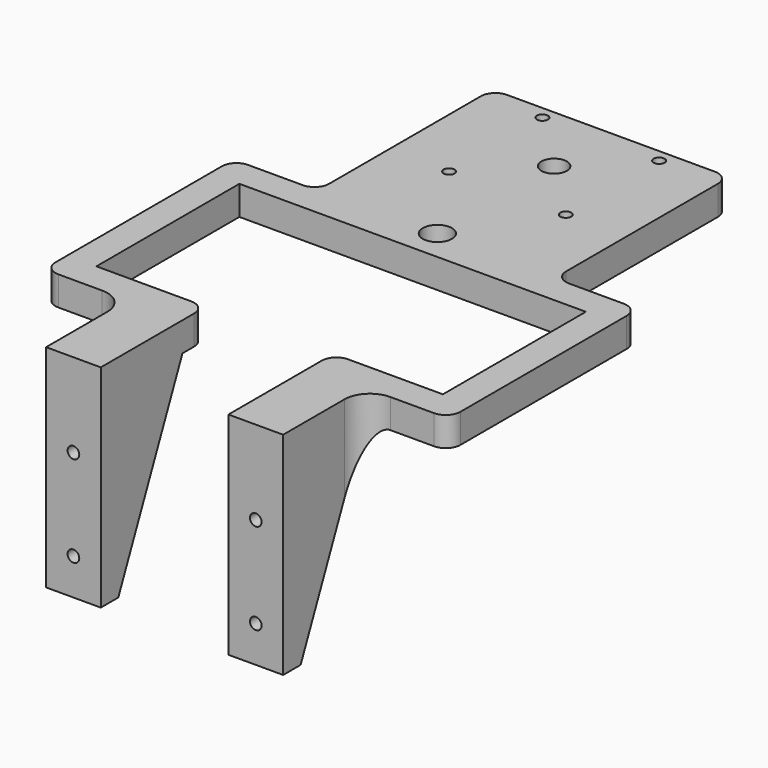
from build123d import *

# Parameters (mm, degrees)
SKETCH_R     = 4
SKETCH_R_2   = 3.5
SKETCH_R_3   = 1.5
PAD_DEPTH    = 8
SKETCH001_W  = 15
SKETCH001_H  = 6
PAD001_DEPTH = 50
PAD002_DEPTH = 2.5
PAD003_DEPTH = 2.5
PAD004_DEPTH = 2.5
PAD005_DEPTH = 2.5
SKETCH006_R  = 1.6
POCKET_DEPTH = 6
FILLET_R     = 7
FILLET001_R  = 4
FILLET002_R  = 4


with BuildPart() as part:
    # Sketch → Pad (new body)
    with BuildSketch(Plane.XY):
        Polygon((-17.5, 0), (-32.5, 0), (-32.5, 28), (-55.5, 28), (-55.5, 93), (-32.5, 93), (-32.5, 153), (32.5, 153), (32.5, 93), (55.5, 93), (55.5, 28), (32.5, 28), (32.5, 0), (17.5, 0), (17.5, 36), (47.5, 36), (47.5, 85), (17.5, 85), (-17.5, 85), (-47.5, 85), (-47.5, 36), (-17.5, 36), align=None)
        with Locations((0, 93.5)):
            Circle(SKETCH_R, mode=Mode.SUBTRACT)
        with Locations((0, 133.5)):
            Circle(SKETCH_R_2, mode=Mode.SUBTRACT)
        with Locations((-16, 149.5)):
            Circle(SKETCH_R_3, mode=Mode.SUBTRACT)
        with Locations((16, 149.5)):
            Circle(SKETCH_R_3, mode=Mode.SUBTRACT)
        with Locations((16, 117.5)):
            Circle(SKETCH_R_3, mode=Mode.SUBTRACT)
        with Locations((-16, 117.5)):
            Circle(SKETCH_R_3, mode=Mode.SUBTRACT)
    extrude(amount=PAD_DEPTH)

    # Sketch001 (on Face20 of Pad) → Pad001 (join)
    with BuildSketch(Plane(origin=(0, 0, 0), x_dir=(1, 0, 0), z_dir=(0, 0, -1))):
        with Locations((-25, -3)):
            Rectangle(SKETCH001_W, SKETCH001_H)
        with Locations((25, -3)):
            Rectangle(SKETCH001_W, SKETCH001_H)
    extrude(amount=PAD001_DEPTH)

    # Sketch002 (on Face31 of Pad001) → Pad002 (join)
    with BuildSketch(Plane.YZ.offset(32.5)):
        Polygon((6, 0), (6, -50), (28, 0), align=None)
    extrude(amount=-PAD002_DEPTH)

    # Sketch003 (on Face14 of Pad002) → Pad003 (join)
    with BuildSketch(Plane(origin=(17.5, 0, 0), x_dir=(0, -1, 0), z_dir=(-1, 0, 0))):
        Polygon((-6, 0), (-28, 0), (-6, -50), align=None)
    extrude(amount=-PAD003_DEPTH)

    # Sketch004 (on Face3 of Pad003) → Pad004 (join)
    with BuildSketch(Plane(origin=(-32.5, 0, 0), x_dir=(0, -1, 0), z_dir=(-1, 0, 0))):
        Polygon((-6, -50), (-6, 0), (-28, 0), align=None)
    extrude(amount=-PAD004_DEPTH)

    # Sketch005 (on Face20 of Pad004) → Pad005 (join)
    with BuildSketch(Plane.YZ.offset(-17.5)):
        Polygon((28, 0), (6, 0), (6, -50), align=None)
    extrude(amount=-PAD005_DEPTH)

    # Sketch006 (on Face2 of Pad005) → Pocket (cut)
    with BuildSketch(Plane.XZ):
        with Locations((25, -40)):
            Circle(SKETCH006_R)
        with Locations((25, -15)):
            Circle(SKETCH006_R)
        with Locations((-25, -15)):
            Circle(SKETCH006_R)
        with Locations((-25, -40)):
            Circle(SKETCH006_R)
    extrude(amount=-POCKET_DEPTH, mode=Mode.SUBTRACT)

    # Fillet
    fillet_edges = [part.edges().sort_by_distance(p)[0] for p in [
        (-32.5, 28, 4),
        (32.5, 28, 4),
    ]]
    fillet(fillet_edges, radius=FILLET_R)

    # Fillet001
    fillet001_edges = [part.edges().sort_by_distance(p)[0] for p in [
        (-55.5, 28, 4),
        (-55.5, 93, 4),
        (-32.5, 93, 4),
        (-32.5, 153, 4),
        (32.5, 153, 4),
        (32.5, 93, 4),
        (55.5, 93, 4),
        (55.5, 28, 4),
    ]]
    fillet(fillet001_edges, radius=FILLET001_R)

    # Fillet002
    fillet002_edges = [part.edges().sort_by_distance(p)[0] for p in [
        (17.5, 36, 4),
        (-17.5, 36, 4),
    ]]
    fillet(fillet002_edges, radius=FILLET002_R)


solid = part.part
